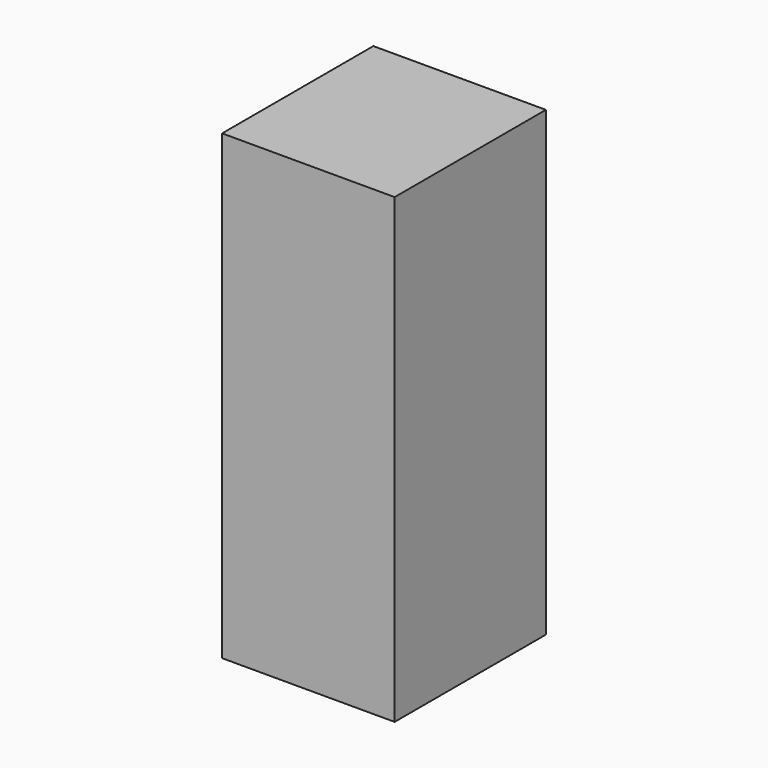
from build123d import *

# Parameters (mm, degrees)
F1_W     = 23.501314
F1_H     = 25.747486
F2_DEPTH = 62.931051


with BuildPart() as f2:
    # F1 (on face) → F2 (new body)
    with BuildSketch(Plane.XY):
        with Locations((31.194389, -41.271966)):
            Rectangle(F1_W, F1_H)
    extrude(amount=F2_DEPTH)


solid = f2.part
